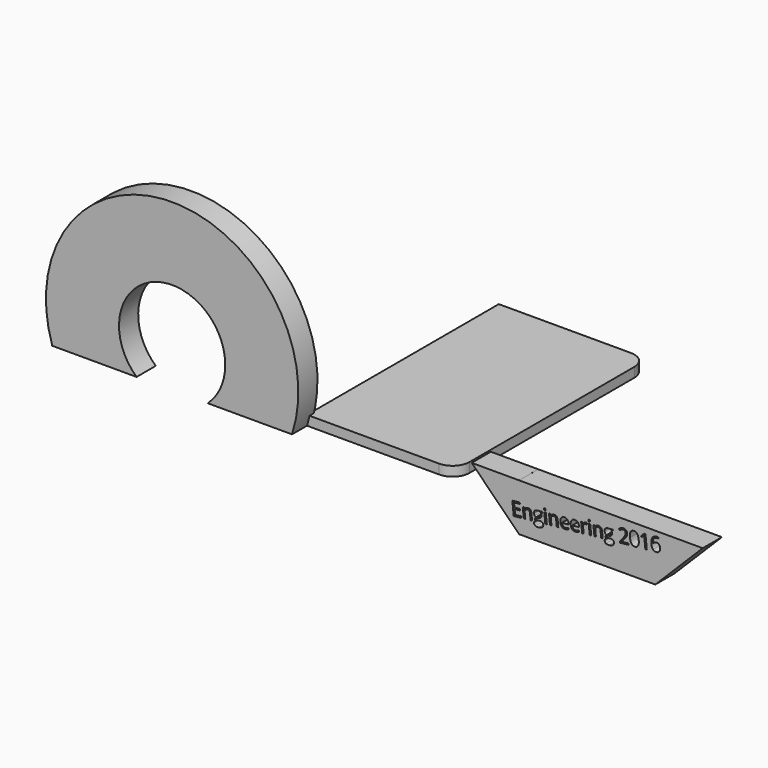
from build123d import *

# Parameters (mm, degrees)
F1_DEPTH = 5.08
F3_DEPTH = 12.7
F5_DEPTH = 12.7


with BuildPart() as f1:
    # F0 (on Top) → F1 (new body)
    with BuildSketch(Plane.XY):
        with BuildLine():
            Line((70.0117455959, 124.229738161), (0, 124.229738161))
            Line((0, 124.229738161), (0, -2.770261839))
            Line((0, -2.770261839), (70.0117455959, -2.770261839))
            ThreePointArc((70.0117455959, -2.770261839), (76.2979248807, -0.1664411238), (78.9017455959, 6.119738161))
            Line((78.9017455959, 6.119738161), (78.9017455959, 115.339738161))
            ThreePointArc((78.9017455959, 115.339738161), (76.2979248807, 121.6259174457), (70.0117455959, 124.229738161))
        make_face()
    extrude(amount=F1_DEPTH)


with BuildPart() as f3:
    # F2 (on Front) → F3 (new body)
    with BuildSketch(Plane.XZ):
        with BuildLine():
            Line((-44.660449028, 0), (0, 0))
            ThreePointArc((0, 0), (-63.5, 87.7487780806), (-127, 0))
            Line((-127, 0), (-82.339550972, 0))
            ThreePointArc((-82.339550972, 0), (-63.5, 49.0348636437), (-44.660449028, 0))
        make_face()
    extrude(amount=F3_DEPTH)


with BuildPart() as f5:
    # F4 (on Front) → F5 (new body)
    with BuildSketch(Plane.XZ):
        Polygon((192.4536546554, 17.6813901773), (120.2919174582, 17.6813901773), (120.2919174582, 17.6855002074), (95.1713174582, 17.6855002074), (120.2919174582, -7.4350997926), (192.4536546554, -7.4350997926), (217.5742546554, 17.6813901773), (205.0909978816, 17.6813901773), align=None)
        with BuildLine():
            Line((127.1690593949, 1.1093207356), (126.3731429304, 1.0267422127))
            Line((126.3731429304, 1.0267422127), (126.0205533219, 4.4251061538))
            add(Edge.make_bspline(
                [(126.0205533219, 4.4251061538), (125.9540449933, 5.0661332872), (125.6290458575, 5.3525023456)],
                knots=[0, 0, 0, 1, 1, 1], degree=2))
            add(Edge.make_bspline(
                [(125.6290458575, 5.3525023456), (125.3040467217, 5.638871404), (124.6798887234, 5.5741132945)],
                knots=[0, 0, 0, 1, 1, 1], degree=2))
            add(Edge.make_bspline(
                [(124.6798887234, 5.5741132945), (123.8563682196, 5.4886707766), (123.5192004831, 5.003394546)],
                knots=[0, 0, 0, 1, 1, 1], degree=2))
            add(Edge.make_bspline(
                [(123.5192004831, 5.003394546), (123.1820327467, 4.5181183154), (123.2884778947, 3.4921681905)],
                knots=[0, 0, 0, 1, 1, 1], degree=2))
            Line((123.2884778947, 3.4921681905), (123.5744000636, 0.7363649404))
            Line((123.5744000636, 0.7363649404), (122.7784835991, 0.6537864174))
            Line((122.7784835991, 0.6537864174), (122.2335289922, 5.9062216605))
            Line((122.2335289922, 5.9062216605), (122.8806903564, 5.9733664325))
            Line((122.8806903564, 5.9733664325), (123.0841321874, 5.2674931648))
            Line((123.0841321874, 5.2674931648), (123.1224711308, 5.2714709356))
            add(Edge.make_bspline(
                [(123.1224711308, 5.2714709356), (123.3275853274, 5.6849187761), (123.7462872149, 5.9445944449)],
                knots=[0, 0, 0, 1, 1, 1], degree=2))
            add(Edge.make_bspline(
                [(123.7462872149, 5.9445944449), (124.1649891024, 6.2042701138), (124.7063349829, 6.2604362383)],
                knots=[0, 0, 0, 1, 1, 1], degree=2))
            add(Edge.make_bspline(
                [(124.7063349829, 6.2604362383), (125.655607221, 6.3589258446), (126.1823385972, 5.9508809963)],
                knots=[0, 0, 0, 1, 1, 1], degree=2))
            add(Edge.make_bspline(
                [(126.1823385972, 5.9508809963), (126.7090699735, 5.542836148), (126.8136057915, 4.535288716)],
                knots=[0, 0, 0, 1, 1, 1], degree=2))
            Line((126.8136057915, 4.535288716), (127.1690593949, 1.1093207356))
        make_face(mode=Mode.SUBTRACT)
        Polygon((121.2705630282, 1.2336168226), (121.3461406744, 0.5051768984), (117.4401691229, 0.0999216038), (116.7131917217, 7.1067468959), (120.6191632732, 7.5120021905), (120.694263587, 6.7881629395), (117.6026111928, 6.4673954978), (117.8368223406, 4.2099985116), (120.7413806911, 4.5113544315), (120.8160036723, 3.7921158537), (117.9114453219, 3.4907599338), (118.178910634, 0.912849381), align=None, mode=Mode.SUBTRACT)
        with BuildLine():
            Line((130.7401737493, 6.7888094574), (132.5559061078, 6.977196685))
            Line((132.5559061078, 6.977196685), (132.6080944614, 6.4741897479))
            Line((132.6080944614, 6.4741897479), (131.6477521698, 6.2582966489))
            add(Edge.make_bspline(
                [(131.6477521698, 6.2582966489), (131.7985147737, 6.1049814983), (131.932492875, 5.8445204268)],
                knots=[0, 0, 0, 1, 1, 1], degree=2))
            add(Edge.make_bspline(
                [(131.932492875, 5.8445204268), (132.0664709764, 5.5840593552), (132.1016344708, 5.2451430957)],
                knots=[0, 0, 0, 1, 1, 1], degree=2))
            add(Edge.make_bspline(
                [(132.1016344708, 5.2451430957), (132.1818263312, 4.4722299972), (131.7020157205, 3.9574285497)],
                knots=[0, 0, 0, 1, 1, 1], degree=2))
            add(Edge.make_bspline(
                [(131.7020157205, 3.9574285497), (131.2222051098, 3.4426271022), (130.3020704687, 3.3471606017)],
                knots=[0, 0, 0, 1, 1, 1], degree=2))
            add(Edge.make_bspline(
                [(130.3020704687, 3.3471606017), (130.0674361352, 3.3228166441), (129.8579616279, 3.3398347357)],
                knots=[0, 0, 0, 1, 1, 1], degree=2))
            add(Edge.make_bspline(
                [(129.8579616279, 3.3398347357), (129.3781984135, 3.0187964459), (129.4203627845, 2.6124036461)],
                knots=[0, 0, 0, 1, 1, 1], degree=2))
            add(Edge.make_bspline(
                [(129.4203627845, 2.6124036461), (129.4427974121, 2.3961720054), (129.6305837564, 2.3118009385)],
                knots=[0, 0, 0, 1, 1, 1], degree=2))
            add(Edge.make_bspline(
                [(129.6305837564, 2.3118009385), (129.8183701007, 2.2274298716), (130.2492998243, 2.272140016)],
                knots=[0, 0, 0, 1, 1, 1], degree=2))
            Line((130.2492998243, 2.272140016), (131.1786358119, 2.3685611815))
            add(Edge.make_bspline(
                [(131.1786358119, 2.3685611815), (132.0328274704, 2.4571859161), (132.5271391661, 2.1449816558)],
                knots=[0, 0, 0, 1, 1, 1], degree=2))
            add(Edge.make_bspline(
                [(132.5271391661, 2.1449816558), (133.0214508617, 1.8327773954), (133.0925734046, 1.1472770878)],
                knots=[0, 0, 0, 1, 1, 1], degree=2))
            add(Edge.make_bspline(
                [(133.0925734046, 1.1472770878), (133.1831074692, 0.2746827365), (132.531299726, -0.2556387878)],
                knots=[0, 0, 0, 1, 1, 1], degree=2))
            add(Edge.make_bspline(
                [(132.531299726, -0.2556387878), (131.8794919827, -0.7859603122), (130.5376289644, -0.925182292)],
                knots=[0, 0, 0, 1, 1, 1], degree=2))
            add(Edge.make_bspline(
                [(130.5376289644, -0.925182292), (129.5070781664, -1.0321047726), (128.9090854422, -0.7066316824)],
                knots=[0, 0, 0, 1, 1, 1], degree=2))
            add(Edge.make_bspline(
                [(128.9090854422, -0.7066316824), (128.3110927181, -0.3811585922), (128.2383790669, 0.3196772928)],
                knots=[0, 0, 0, 1, 1, 1], degree=2))
            add(Edge.make_bspline(
                [(128.2383790669, 0.3196772928), (128.1887364866, 0.7981473061), (128.4590912081, 1.1803874155)],
                knots=[0, 0, 0, 1, 1, 1], degree=2))
            add(Edge.make_bspline(
                [(128.4590912081, 1.1803874155), (128.7294459295, 1.5626275248), (129.2717058521, 1.7444438233)],
                knots=[0, 0, 0, 1, 1, 1], degree=2))
            add(Edge.make_bspline(
                [(129.2717058521, 1.7444438233), (129.0614222496, 1.8140802104), (128.9050467569, 1.9916140631)],
                knots=[0, 0, 0, 1, 1, 1], degree=2))
            add(Edge.make_bspline(
                [(128.9050467569, 1.9916140631), (128.7486712642, 2.1691479157), (128.7222588657, 2.4237184998)],
                knots=[0, 0, 0, 1, 1, 1], degree=2))
            add(Edge.make_bspline(
                [(128.7222588657, 2.4237184998), (128.6925051397, 2.7104937962), (128.8234262856, 2.9426365203)],
                knots=[0, 0, 0, 1, 1, 1], degree=2))
            add(Edge.make_bspline(
                [(128.8234262856, 2.9426365203), (128.9543474315, 3.1747792444), (129.2647523831, 3.4100432479)],
                knots=[0, 0, 0, 1, 1, 1], degree=2))
            add(Edge.make_bspline(
                [(129.2647523831, 3.4100432479), (128.8394829446, 3.5348775591), (128.5416122088, 3.9108649553)],
                knots=[0, 0, 0, 1, 1, 1], degree=2))
            add(Edge.make_bspline(
                [(128.5416122088, 3.9108649553), (128.2437414731, 4.2868523515), (128.1899620112, 4.805194866)],
                knots=[0, 0, 0, 1, 1, 1], degree=2))
            add(Edge.make_bspline(
                [(128.1899620112, 4.805194866), (128.1005417224, 5.6670543132), (128.5695886536, 6.1884893289)],
                knots=[0, 0, 0, 1, 1, 1], degree=2))
            add(Edge.make_bspline(
                [(128.5695886536, 6.1884893289), (129.0386355848, 6.7099243447), (129.9863742652, 6.8082548402)],
                knots=[0, 0, 0, 1, 1, 1], degree=2))
            add(Edge.make_bspline(
                [(129.9863742652, 6.8082548402), (130.3989012959, 6.8510556546), (130.7401737493, 6.7888094574)],
                knots=[0, 0, 0, 1, 1, 1], degree=2))
        make_face(mode=Mode.SUBTRACT)
        Polygon((134.4299136602, 7.1716301243), (134.9748682671, 1.9191948813), (134.1789518025, 1.8366163584), (133.6339971956, 7.0890516014), align=None, mode=Mode.SUBTRACT)
        with BuildLine():
            Line((141.0523575716, 2.549751117), (140.2564411071, 2.4671725941))
            Line((140.2564411071, 2.4671725941), (139.9038514986, 5.8655365352))
            add(Edge.make_bspline(
                [(139.9038514986, 5.8655365352), (139.83734317, 6.5065636686), (139.5123440342, 6.792932727)],
                knots=[0, 0, 0, 1, 1, 1], degree=2))
            add(Edge.make_bspline(
                [(139.5123440342, 6.792932727), (139.1873448984, 7.0793017854), (138.5631869001, 7.0145436759)],
                knots=[0, 0, 0, 1, 1, 1], degree=2))
            add(Edge.make_bspline(
                [(138.5631869001, 7.0145436759), (137.7396663963, 6.929101158), (137.4024986599, 6.4438249274)],
                knots=[0, 0, 0, 1, 1, 1], degree=2))
            add(Edge.make_bspline(
                [(137.4024986599, 6.4438249274), (137.0653309234, 5.9585486967), (137.1717760714, 4.9325985719)],
                knots=[0, 0, 0, 1, 1, 1], degree=2))
            Line((137.1717760714, 4.9325985719), (137.4576982403, 2.1767953218))
            Line((137.4576982403, 2.1767953218), (136.6617817758, 2.0942167988))
            Line((136.6617817758, 2.0942167988), (136.1168271689, 7.3466520419))
            Line((136.1168271689, 7.3466520419), (136.7639885331, 7.4137968139))
            Line((136.7639885331, 7.4137968139), (136.9674303641, 6.7079235462))
            Line((136.9674303641, 6.7079235462), (137.0057693075, 6.711901317))
            add(Edge.make_bspline(
                [(137.0057693075, 6.711901317), (137.2108835041, 7.1253491575), (137.6295853916, 7.3850248263)],
                knots=[0, 0, 0, 1, 1, 1], degree=2))
            add(Edge.make_bspline(
                [(137.6295853916, 7.3850248263), (138.0482872791, 7.6447004952), (138.5896331596, 7.7008666197)],
                knots=[0, 0, 0, 1, 1, 1], degree=2))
            add(Edge.make_bspline(
                [(138.5896331596, 7.7008666197), (139.5389053977, 7.799356226), (140.0656367739, 7.3913113777)],
                knots=[0, 0, 0, 1, 1, 1], degree=2))
            add(Edge.make_bspline(
                [(140.0656367739, 7.3913113777), (140.5923681502, 6.9832665294), (140.6969039682, 5.9757190974)],
                knots=[0, 0, 0, 1, 1, 1], degree=2))
            Line((140.6969039682, 5.9757190974), (141.0523575716, 2.549751117))
        make_face(mode=Mode.SUBTRACT)
        with BuildLine():
            add(Edge.make_bspline(
                [(145.8142710009, 3.026762011), (145.4468231191, 2.9080348544), (144.914678585, 2.852823395)],
                knots=[0, 0, 0, 1, 1, 1], degree=2))
            add(Edge.make_bspline(
                [(144.914678585, 2.852823395), (143.750708264, 2.7320582719), (143.0030413232, 3.3721662917)],
                knots=[0, 0, 0, 1, 1, 1], degree=2))
            add(Edge.make_bspline(
                [(143.0030413232, 3.3721662917), (142.2553743823, 4.0122743115), (142.1247443875, 5.2713252121)],
                knots=[0, 0, 0, 1, 1, 1], degree=2))
            add(Edge.make_bspline(
                [(142.1247443875, 5.2713252121), (141.992841506, 6.5426445745), (142.5409665303, 7.3551711908)],
                knots=[0, 0, 0, 1, 1, 1], degree=2))
            add(Edge.make_bspline(
                [(142.5409665303, 7.3551711908), (143.0890915547, 8.167697807), (144.1441792765, 8.2771660609)],
                knots=[0, 0, 0, 1, 1, 1], degree=2))
            add(Edge.make_bspline(
                [(144.1441792765, 8.2771660609), (145.1302569002, 8.3794743272), (145.7727244892, 7.7896791892)],
                knots=[0, 0, 0, 1, 1, 1], degree=2))
            add(Edge.make_bspline(
                [(145.7727244892, 7.7896791892), (146.4151920781, 7.1998840511), (146.525614997, 6.1355949829)],
                knots=[0, 0, 0, 1, 1, 1], degree=2))
            Line((146.525614997, 6.1355949829), (146.5778033506, 5.6325880458))
            Line((146.5778033506, 5.6325880458), (142.9601406533, 5.257245588))
            add(Edge.make_bspline(
                [(142.9601406533, 5.257245588), (143.08062141, 4.3350560471), (143.5735417312, 3.9018022859)],
                knots=[0, 0, 0, 1, 1, 1], degree=2))
            add(Edge.make_bspline(
                [(143.5735417312, 3.9018022859), (144.0664620523, 3.4685485247), (144.8715798633, 3.5520817126)],
                knots=[0, 0, 0, 1, 1, 1], degree=2))
            add(Edge.make_bspline(
                [(144.8715798633, 3.5520817126), (145.7196372908, 3.6400700039), (146.5110038652, 4.0802416912)],
                knots=[0, 0, 0, 1, 1, 1], degree=2))
            Line((146.5110038652, 4.0802416912), (146.5846721814, 3.3702044598))
            add(Edge.make_bspline(
                [(146.5846721814, 3.3702044598), (146.1817188826, 3.1454891676), (145.8142710009, 3.026762011)],
                knots=[0, 0, 0, 1, 1, 1], degree=2))
        make_face(mode=Mode.SUBTRACT)
        with BuildLine():
            add(Edge.make_bspline(
                [(151.3212768279, 3.5981290164), (150.9538289462, 3.4794018598), (150.4216844121, 3.4241904004)],
                knots=[0, 0, 0, 1, 1, 1], degree=2))
            add(Edge.make_bspline(
                [(150.4216844121, 3.4241904004), (149.2577140911, 3.3034252773), (148.5100471502, 3.943533297)],
                knots=[0, 0, 0, 1, 1, 1], degree=2))
            add(Edge.make_bspline(
                [(148.5100471502, 3.943533297), (147.7623802094, 4.5836413168), (147.6317502146, 5.8426922174)],
                knots=[0, 0, 0, 1, 1, 1], degree=2))
            add(Edge.make_bspline(
                [(147.6317502146, 5.8426922174), (147.4998473331, 7.1140115799), (148.0479723574, 7.9265381961)],
                knots=[0, 0, 0, 1, 1, 1], degree=2))
            add(Edge.make_bspline(
                [(148.0479723574, 7.9265381961), (148.5960973817, 8.7390648124), (149.6511851036, 8.8485330663)],
                knots=[0, 0, 0, 1, 1, 1], degree=2))
            add(Edge.make_bspline(
                [(149.6511851036, 8.8485330663), (150.6372627273, 8.9508413326), (151.2797303162, 8.3610461945)],
                knots=[0, 0, 0, 1, 1, 1], degree=2))
            add(Edge.make_bspline(
                [(151.2797303162, 8.3610461945), (151.9221979052, 7.7712510565), (152.0326208241, 6.7069619883)],
                knots=[0, 0, 0, 1, 1, 1], degree=2))
            Line((152.0326208241, 6.7069619883), (152.0848091777, 6.2039550511))
            Line((152.0848091777, 6.2039550511), (148.4671464804, 5.8286125934))
            add(Edge.make_bspline(
                [(148.4671464804, 5.8286125934), (148.5876272371, 4.9064230524), (149.0805475582, 4.4731692912)],
                knots=[0, 0, 0, 1, 1, 1], degree=2))
            add(Edge.make_bspline(
                [(149.0805475582, 4.4731692912), (149.5734678794, 4.0399155301), (150.3785856904, 4.123448718)],
                knots=[0, 0, 0, 1, 1, 1], degree=2))
            add(Edge.make_bspline(
                [(150.3785856904, 4.123448718), (151.2266431179, 4.2114370093), (152.0180096922, 4.6516086965)],
                knots=[0, 0, 0, 1, 1, 1], degree=2))
            Line((152.0180096922, 4.6516086965), (152.0916780084, 3.9415714651))
            add(Edge.make_bspline(
                [(152.0916780084, 3.9415714651), (151.6887247097, 3.716856173), (151.3212768279, 3.5981290164)],
                knots=[0, 0, 0, 1, 1, 1], degree=2))
        make_face(mode=Mode.SUBTRACT)
        with BuildLine():
            add(Edge.make_bspline(
                [(154.6641263593, 9.0873025482), (155.0477747737, 9.4084440916), (155.5415803644, 9.4596777802)],
                knots=[0, 0, 0, 1, 1, 1], degree=2))
            add(Edge.make_bspline(
                [(155.5415803644, 9.4596777802), (155.8912315281, 9.4959550503), (156.1748516898, 9.4664789174)],
                knots=[0, 0, 0, 1, 1, 1], degree=2))
            Line((156.1748516898, 9.4664789174), (156.1409678441, 8.7173816667))
            add(Edge.make_bspline(
                [(156.1409678441, 8.7173816667), (155.808375395, 8.7557273834), (155.5584054842, 8.7297923174)],
                knots=[0, 0, 0, 1, 1, 1], degree=2))
            add(Edge.make_bspline(
                [(155.5584054842, 8.7297923174), (154.9204454664, 8.6636022105), (154.521745841, 8.0990887788)],
                knots=[0, 0, 0, 1, 1, 1], degree=2))
            add(Edge.make_bspline(
                [(154.521745841, 8.0990887788), (154.1230462156, 7.5345753471), (154.2030789652, 6.7631958063)],
                knots=[0, 0, 0, 1, 1, 1], degree=2))
            Line((154.2030789652, 6.7631958063), (154.4955246783, 3.944516689))
            Line((154.4955246783, 3.944516689), (153.6996082138, 3.8619381661))
            Line((153.6996082138, 3.8619381661), (153.1546536069, 9.1143734091))
            Line((153.1546536069, 9.1143734091), (153.8110163175, 9.1824728461))
            Line((153.8110163175, 9.1824728461), (154.0039060505, 8.219743892))
            Line((154.0039060505, 8.219743892), (154.0422449939, 8.2237216629))
            add(Edge.make_bspline(
                [(154.0422449939, 8.2237216629), (154.280477945, 8.7661610049), (154.6641263593, 9.0873025482)],
                knots=[0, 0, 0, 1, 1, 1], degree=2))
        make_face(mode=Mode.SUBTRACT)
        with BuildLine():
            add(Edge.make_bspline(
                [(133.5945800307, 8.1188559321), (133.4467101971, 8.2368196993), (133.4188658012, 8.505192303)],
                knots=[0, 0, 0, 1, 1, 1], degree=2))
            add(Edge.make_bspline(
                [(133.4188658012, 8.505192303), (133.3905440727, 8.7781655798), (133.5115241753, 8.9193730699)],
                knots=[0, 0, 0, 1, 1, 1], degree=2))
            add(Edge.make_bspline(
                [(133.5115241753, 8.9193730699), (133.6325042779, 9.0605805599), (133.8349338989, 9.08158319)],
                knots=[0, 0, 0, 1, 1, 1], degree=2))
            add(Edge.make_bspline(
                [(133.8349338989, 9.08158319), (134.0266286158, 9.1014720442), (134.1788604564, 8.9862859461)],
                knots=[0, 0, 0, 1, 1, 1], degree=2))
            add(Edge.make_bspline(
                [(134.1788604564, 8.9862859461), (134.3310922969, 8.871099848), (134.3589366928, 8.6027272443)],
                knots=[0, 0, 0, 1, 1, 1], degree=2))
            add(Edge.make_bspline(
                [(134.3589366928, 8.6027272443), (134.3867810888, 8.3343546406), (134.2616776455, 8.1880691449)],
                knots=[0, 0, 0, 1, 1, 1], degree=2))
            add(Edge.make_bspline(
                [(134.2616776455, 8.1880691449), (134.1365742022, 8.0417836492), (133.9448794853, 8.0218947949)],
                knots=[0, 0, 0, 1, 1, 1], degree=2))
            add(Edge.make_bspline(
                [(133.9448794853, 8.0218947949), (133.7424498643, 8.0008921648), (133.5945800307, 8.1188559321)],
                knots=[0, 0, 0, 1, 1, 1], degree=2))
        make_face(mode=Mode.SUBTRACT)
        Polygon((157.9577564335, 9.6127085416), (158.5027110404, 4.3602732986), (157.7067945758, 4.2776947756), (157.1618399689, 9.5301300187), align=None, mode=Mode.SUBTRACT)
        with BuildLine():
            Line((164.580200345, 4.9908295342), (163.7842838804, 4.9082510113))
            Line((163.7842838804, 4.9082510113), (163.431694272, 8.3066149525))
            add(Edge.make_bspline(
                [(163.431694272, 8.3066149525), (163.3651859433, 8.9476420858), (163.0401868075, 9.2340111442)],
                knots=[0, 0, 0, 1, 1, 1], degree=2))
            add(Edge.make_bspline(
                [(163.0401868075, 9.2340111442), (162.7151876717, 9.5203802026), (162.0910296735, 9.4556220931)],
                knots=[0, 0, 0, 1, 1, 1], degree=2))
            add(Edge.make_bspline(
                [(162.0910296735, 9.4556220931), (161.2675091697, 9.3701795752), (160.9303414332, 8.8849033446)],
                knots=[0, 0, 0, 1, 1, 1], degree=2))
            add(Edge.make_bspline(
                [(160.9303414332, 8.8849033446), (160.5931736967, 8.399627114), (160.6996188448, 7.3736769892)],
                knots=[0, 0, 0, 1, 1, 1], degree=2))
            Line((160.6996188448, 7.3736769892), (160.9855410137, 4.617873739))
            Line((160.9855410137, 4.617873739), (160.1896245491, 4.5352952161))
            Line((160.1896245491, 4.5352952161), (159.6446699422, 9.7877304591))
            Line((159.6446699422, 9.7877304591), (160.2918313065, 9.8548752311))
            Line((160.2918313065, 9.8548752311), (160.4952731374, 9.1490019634))
            Line((160.4952731374, 9.1490019634), (160.5336120808, 9.1529797343))
            add(Edge.make_bspline(
                [(160.5336120808, 9.1529797343), (160.7387262774, 9.5664275747), (161.1574281649, 9.8261032436)],
                knots=[0, 0, 0, 1, 1, 1], degree=2))
            add(Edge.make_bspline(
                [(161.1574281649, 9.8261032436), (161.5761300524, 10.0857789125), (162.117475933, 10.1419450369)],
                knots=[0, 0, 0, 1, 1, 1], degree=2))
            add(Edge.make_bspline(
                [(162.117475933, 10.1419450369), (163.066748171, 10.2404346432), (163.5934795473, 9.832389795)],
                knots=[0, 0, 0, 1, 1, 1], degree=2))
            add(Edge.make_bspline(
                [(163.5934795473, 9.832389795), (164.1202109235, 9.4243449467), (164.2247467415, 8.4167975146)],
                knots=[0, 0, 0, 1, 1, 1], degree=2))
            Line((164.2247467415, 8.4167975146), (164.580200345, 4.9908295342))
        make_face(mode=Mode.SUBTRACT)
        with BuildLine():
            Line((168.1513146993, 10.6703182561), (169.9670470578, 10.8587054837))
            Line((169.9670470578, 10.8587054837), (170.0192354114, 10.3556985465))
            Line((170.0192354114, 10.3556985465), (169.0588931199, 10.1398054476))
            add(Edge.make_bspline(
                [(169.0588931199, 10.1398054476), (169.2096557237, 9.986490297), (169.3436338251, 9.7260292254)],
                knots=[0, 0, 0, 1, 1, 1], degree=2))
            add(Edge.make_bspline(
                [(169.3436338251, 9.7260292254), (169.4776119265, 9.4655681538), (169.5127754208, 9.1266518944)],
                knots=[0, 0, 0, 1, 1, 1], degree=2))
            add(Edge.make_bspline(
                [(169.5127754208, 9.1266518944), (169.5929672812, 8.3537387958), (169.1131566706, 7.8389373483)],
                knots=[0, 0, 0, 1, 1, 1], degree=2))
            add(Edge.make_bspline(
                [(169.1131566706, 7.8389373483), (168.6333460599, 7.3241359008), (167.7132114188, 7.2286694003)],
                knots=[0, 0, 0, 1, 1, 1], degree=2))
            add(Edge.make_bspline(
                [(167.7132114188, 7.2286694003), (167.4785770853, 7.2043254427), (167.2691025779, 7.2213435343)],
                knots=[0, 0, 0, 1, 1, 1], degree=2))
            add(Edge.make_bspline(
                [(167.2691025779, 7.2213435343), (166.7893393635, 6.9003052446), (166.8315037346, 6.4939124448)],
                knots=[0, 0, 0, 1, 1, 1], degree=2))
            add(Edge.make_bspline(
                [(166.8315037346, 6.4939124448), (166.8539383622, 6.2776808041), (167.0417247065, 6.1933097372)],
                knots=[0, 0, 0, 1, 1, 1], degree=2))
            add(Edge.make_bspline(
                [(167.0417247065, 6.1933097372), (167.2295110508, 6.1089386703), (167.6604407744, 6.1536488146)],
                knots=[0, 0, 0, 1, 1, 1], degree=2))
            Line((167.6604407744, 6.1536488146), (168.5897767619, 6.2500699801))
            add(Edge.make_bspline(
                [(168.5897767619, 6.2500699801), (169.4439684204, 6.3386947147), (169.9382801161, 6.0264904544)],
                knots=[0, 0, 0, 1, 1, 1], degree=2))
            add(Edge.make_bspline(
                [(169.9382801161, 6.0264904544), (170.4325918118, 5.7142861941), (170.5037143547, 5.0287858864)],
                knots=[0, 0, 0, 1, 1, 1], degree=2))
            add(Edge.make_bspline(
                [(170.5037143547, 5.0287858864), (170.5942484193, 4.1561915351), (169.942440676, 3.6258700108)],
                knots=[0, 0, 0, 1, 1, 1], degree=2))
            add(Edge.make_bspline(
                [(169.942440676, 3.6258700108), (169.2906329328, 3.0955484865), (167.9487699145, 2.9563265066)],
                knots=[0, 0, 0, 1, 1, 1], degree=2))
            add(Edge.make_bspline(
                [(167.9487699145, 2.9563265066), (166.9182191164, 2.8494040261), (166.3202263923, 3.1748771163)],
                knots=[0, 0, 0, 1, 1, 1], degree=2))
            add(Edge.make_bspline(
                [(166.3202263923, 3.1748771163), (165.7222336681, 3.5003502064), (165.6495200169, 4.2011860914)],
                knots=[0, 0, 0, 1, 1, 1], degree=2))
            add(Edge.make_bspline(
                [(165.6495200169, 4.2011860914), (165.5998774367, 4.6796561048), (165.8702321581, 5.0618962141)],
                knots=[0, 0, 0, 1, 1, 1], degree=2))
            add(Edge.make_bspline(
                [(165.8702321581, 5.0618962141), (166.1405868796, 5.4441363234), (166.6828468021, 5.6259526219)],
                knots=[0, 0, 0, 1, 1, 1], degree=2))
            add(Edge.make_bspline(
                [(166.6828468021, 5.6259526219), (166.4725631996, 5.695589009), (166.3161877069, 5.8731228617)],
                knots=[0, 0, 0, 1, 1, 1], degree=2))
            add(Edge.make_bspline(
                [(166.3161877069, 5.8731228617), (166.1598122142, 6.0506567144), (166.1333998158, 6.3052272984)],
                knots=[0, 0, 0, 1, 1, 1], degree=2))
            add(Edge.make_bspline(
                [(166.1333998158, 6.3052272984), (166.1036460898, 6.5920025949), (166.2345672357, 6.824145319)],
                knots=[0, 0, 0, 1, 1, 1], degree=2))
            add(Edge.make_bspline(
                [(166.2345672357, 6.824145319), (166.3654883816, 7.056288043), (166.6758933331, 7.2915520465)],
                knots=[0, 0, 0, 1, 1, 1], degree=2))
            add(Edge.make_bspline(
                [(166.6758933331, 7.2915520465), (166.2506238946, 7.4163863578), (165.9527531589, 7.792373754)],
                knots=[0, 0, 0, 1, 1, 1], degree=2))
            add(Edge.make_bspline(
                [(165.9527531589, 7.792373754), (165.6548824232, 8.1683611502), (165.6011029612, 8.6867036647)],
                knots=[0, 0, 0, 1, 1, 1], degree=2))
            add(Edge.make_bspline(
                [(165.6011029612, 8.6867036647), (165.5116826724, 9.5485631118), (165.9807296037, 10.0699981276)],
                knots=[0, 0, 0, 1, 1, 1], degree=2))
            add(Edge.make_bspline(
                [(165.9807296037, 10.0699981276), (166.4497765349, 10.5914331433), (167.3975152152, 10.6897636388)],
                knots=[0, 0, 0, 1, 1, 1], degree=2))
            add(Edge.make_bspline(
                [(167.3975152152, 10.6897636388), (167.810042246, 10.7325644532), (168.1513146993, 10.6703182561)],
                knots=[0, 0, 0, 1, 1, 1], degree=2))
        make_face(mode=Mode.SUBTRACT)
        with BuildLine():
            add(Edge.make_bspline(
                [(157.1224228041, 10.5599343493), (156.9745529705, 10.6778981166), (156.9467085745, 10.9462707202)],
                knots=[0, 0, 0, 1, 1, 1], degree=2))
            add(Edge.make_bspline(
                [(156.9467085745, 10.9462707202), (156.918386846, 11.2192439971), (157.0393669486, 11.3604514871)],
                knots=[0, 0, 0, 1, 1, 1], degree=2))
            add(Edge.make_bspline(
                [(157.0393669486, 11.3604514871), (157.1603470512, 11.5016589771), (157.3627766723, 11.5226616072)],
                knots=[0, 0, 0, 1, 1, 1], degree=2))
            add(Edge.make_bspline(
                [(157.3627766723, 11.5226616072), (157.5544713892, 11.5425504615), (157.7067032297, 11.4273643634)],
                knots=[0, 0, 0, 1, 1, 1], degree=2))
            add(Edge.make_bspline(
                [(157.7067032297, 11.4273643634), (157.8589350702, 11.3121782652), (157.8867794662, 11.0438056616)],
                knots=[0, 0, 0, 1, 1, 1], degree=2))
            add(Edge.make_bspline(
                [(157.8867794662, 11.0438056616), (157.9146238622, 10.7754330579), (157.7895204189, 10.6291475622)],
                knots=[0, 0, 0, 1, 1, 1], degree=2))
            add(Edge.make_bspline(
                [(157.7895204189, 10.6291475622), (157.6644169756, 10.4828620665), (157.4727222587, 10.4629732122)],
                knots=[0, 0, 0, 1, 1, 1], degree=2))
            add(Edge.make_bspline(
                [(157.4727222587, 10.4629732122), (157.2702926376, 10.4419705821), (157.1224228041, 10.5599343493)],
                knots=[0, 0, 0, 1, 1, 1], degree=2))
        make_face(mode=Mode.SUBTRACT)
        with BuildLine():
            Line((178.3056876505, 7.160468312), (178.3822199617, 6.4228270414))
            Line((178.3822199617, 6.4228270414), (173.7769460829, 5.9450172065))
            Line((173.7769460829, 5.9450172065), (173.7058235401, 6.6305175141))
            Line((173.7058235401, 6.6305175141), (175.3583284971, 8.6759991495))
            add(Edge.make_bspline(
                [(175.3583284971, 8.6759991495), (176.1131605168, 9.6177017667), (176.3437442974, 10.0097661248)],
                knots=[0, 0, 0, 1, 1, 1], degree=2))
            add(Edge.make_bspline(
                [(176.3437442974, 10.0097661248), (176.5743280779, 10.4018304829), (176.6727144421, 10.7608031713)],
                knots=[0, 0, 0, 1, 1, 1], degree=2))
            add(Edge.make_bspline(
                [(176.6727144421, 10.7608031713), (176.7711008062, 11.1197758597), (176.7298911002, 11.5169673131)],
                knots=[0, 0, 0, 1, 1, 1], degree=2))
            add(Edge.make_bspline(
                [(176.7298911002, 11.5169673131), (176.6716565349, 12.0782494442), (176.2971569992, 12.3711081944)],
                knots=[0, 0, 0, 1, 1, 1], degree=2))
            add(Edge.make_bspline(
                [(176.2971569992, 12.3711081944), (175.9226574634, 12.6639669445), (175.3184357158, 12.6012772759)],
                knots=[0, 0, 0, 1, 1, 1], degree=2))
            add(Edge.make_bspline(
                [(175.3184357158, 12.6012772759), (174.882905319, 12.556089799), (174.5068045149, 12.3713621092)],
                knots=[0, 0, 0, 1, 1, 1], degree=2))
            add(Edge.make_bspline(
                [(174.5068045149, 12.3713621092), (174.1307037108, 12.1866344193), (173.6915340735, 11.7582030785)],
                knots=[0, 0, 0, 1, 1, 1], degree=2))
            Line((173.6915340735, 11.7582030785), (173.2136395719, 12.2557934796))
            add(Edge.make_bspline(
                [(173.2136395719, 12.2557934796), (174.0977813149, 13.1613102269), (175.2387482698, 13.2796886875)],
                knots=[0, 0, 0, 1, 1, 1], degree=2))
            add(Edge.make_bspline(
                [(175.2387482698, 13.2796886875), (176.2263594513, 13.3821560647), (176.8393018234, 12.9350038009)],
                knots=[0, 0, 0, 1, 1, 1], degree=2))
            add(Edge.make_bspline(
                [(176.8393018234, 12.9350038009), (177.4522441954, 12.487851537), (177.5407098192, 11.6351934362)],
                knots=[0, 0, 0, 1, 1, 1], degree=2))
            add(Edge.make_bspline(
                [(177.5407098192, 11.6351934362), (177.6099230321, 10.9680958214), (177.3033570492, 10.2775107404)],
                knots=[0, 0, 0, 1, 1, 1], degree=2))
            add(Edge.make_bspline(
                [(177.3033570492, 10.2775107404), (176.9967910663, 9.5869256594), (176.0757965414, 8.4838270944)],
                knots=[0, 0, 0, 1, 1, 1], degree=2))
            Line((176.0757965414, 8.4838270944), (174.697849202, 6.8248967952))
            Line((174.697849202, 6.8248967952), (174.7018269728, 6.7865578518))
            Line((174.7018269728, 6.7865578518), (178.3056876505, 7.160468312))
        make_face(mode=Mode.SUBTRACT)
        with BuildLine():
            add(Edge.make_bspline(
                [(182.7974833796, 13.1393139282), (183.4854600538, 12.275228617), (183.6673237372, 10.5223721257)],
                knots=[0, 0, 0, 1, 1, 1], degree=2))
            add(Edge.make_bspline(
                [(183.6673237372, 10.5223721257), (183.8558700756, 8.7051062095), (183.3760865441, 7.7493138167)],
                knots=[0, 0, 0, 1, 1, 1], degree=2))
            add(Edge.make_bspline(
                [(183.3760865441, 7.7493138167), (182.8963030125, 6.7935214239), (181.7169971142, 6.6711651925)],
                knots=[0, 0, 0, 1, 1, 1], degree=2))
            add(Edge.make_bspline(
                [(181.7169971142, 6.6711651925), (180.5867650633, 6.5539005077), (179.9018842799, 7.4105566965)],
                knots=[0, 0, 0, 1, 1, 1], degree=2))
            add(Edge.make_bspline(
                [(179.9018842799, 7.4105566965), (179.2170034965, 8.2672128853), (179.0329122614, 10.0415391849)],
                knots=[0, 0, 0, 1, 1, 1], degree=2))
            add(Edge.make_bspline(
                [(179.0329122614, 10.0415391849), (178.8430930363, 11.871073563), (179.3215308963, 12.8174259431)],
                knots=[0, 0, 0, 1, 1, 1], degree=2))
            add(Edge.make_bspline(
                [(179.3215308963, 12.8174259431), (179.7999687562, 13.7637783232), (180.9685397504, 13.8850207788)],
                knots=[0, 0, 0, 1, 1, 1], degree=2))
            add(Edge.make_bspline(
                [(180.9685397504, 13.8850207788), (182.1095067054, 14.0033992394), (182.7974833796, 13.1393139282)],
                knots=[0, 0, 0, 1, 1, 1], degree=2))
        make_face(mode=Mode.SUBTRACT)
        with BuildLine():
            Line((187.2185085973, 14.4218674952), (187.9454859984, 7.4150422031))
            Line((187.9454859984, 7.4150422031), (187.1695057844, 7.334532121))
            Line((187.1695057844, 7.334532121), (186.6514409085, 12.3277961068))
            add(Edge.make_bspline(
                [(186.6514409085, 12.3277961068), (186.586682799, 12.951954105), (186.5674236204, 13.511079776)],
                knots=[0, 0, 0, 1, 1, 1], degree=2))
            add(Edge.make_bspline(
                [(186.5674236204, 13.511079776), (186.4782436827, 13.3995227613), (186.3646351519, 13.2769058502)],
                knots=[0, 0, 0, 1, 1, 1], degree=2))
            add(Edge.make_bspline(
                [(186.3646351519, 13.2769058502), (186.2510266211, 13.1542889392), (185.3214130292, 12.2239035054)],
                knots=[0, 0, 0, 1, 1, 1], degree=2))
            Line((185.3214130292, 12.2239035054), (184.843041195, 12.7260945798))
            Line((184.843041195, 12.7260945798), (186.548343867, 14.3523360606))
            Line((186.548343867, 14.3523360606), (187.2185085973, 14.4218674952))
        make_face(mode=Mode.SUBTRACT)
        with BuildLine():
            add(Edge.make_bspline(
                [(191.2544990491, 8.4868923941), (190.5324997355, 9.2381681154), (190.3813444431, 10.6950479638)],
                knots=[0, 0, 0, 1, 1, 1], degree=2))
            add(Edge.make_bspline(
                [(190.3813444431, 10.6950479638), (190.1670221495, 12.7607502331), (190.8637126975, 13.8669277642)],
                knots=[0, 0, 0, 1, 1, 1], degree=2))
            add(Edge.make_bspline(
                [(190.8637126975, 13.8669277642), (191.5604032455, 14.9731052952), (193.1322999241, 15.1361939002)],
                knots=[0, 0, 0, 1, 1, 1], degree=2))
            add(Edge.make_bspline(
                [(193.1322999241, 15.1361939002), (193.6736458046, 15.1923600246), (193.9943455641, 15.1341796176)],
                knots=[0, 0, 0, 1, 1, 1], degree=2))
            Line((193.9943455641, 15.1341796176), (194.0654681069, 14.44867931))
            add(Edge.make_bspline(
                [(194.0654681069, 14.44867931), (193.6834700477, 14.5299511023), (193.2096007075, 14.4807858545)],
                knots=[0, 0, 0, 1, 1, 1], degree=2))
            add(Edge.make_bspline(
                [(193.2096007075, 14.4807858545), (192.0824357721, 14.3638393915), (191.5609753564, 13.6005812794)],
                knots=[0, 0, 0, 1, 1, 1], degree=2))
            add(Edge.make_bspline(
                [(191.5609753564, 13.6005812794), (191.0395149406, 12.8373231673), (191.1390201435, 11.3254823705)],
                knots=[0, 0, 0, 1, 1, 1], degree=2))
            Line((191.1390201435, 11.3254823705), (191.1957617797, 11.3313694713))
            add(Edge.make_bspline(
                [(191.1957617797, 11.3313694713), (191.6377040119, 12.2111576598), (192.7786709668, 12.3295361204)],
                knots=[0, 0, 0, 1, 1, 1], degree=2))
            add(Edge.make_bspline(
                [(192.7786709668, 12.3295361204), (193.7233425317, 12.4275483942), (194.3261779791, 11.9134697074)],
                knots=[0, 0, 0, 1, 1, 1], degree=2))
            add(Edge.make_bspline(
                [(194.3261779791, 11.9134697074), (194.9290134266, 11.3993910206), (195.0303670279, 10.4225147433)],
                knots=[0, 0, 0, 1, 1, 1], degree=2))
            add(Edge.make_bspline(
                [(195.0303670279, 10.4225147433), (195.1438130526, 9.3290880781), (194.612176314, 8.6415024077)],
                knots=[0, 0, 0, 1, 1, 1], degree=2))
            add(Edge.make_bspline(
                [(194.612176314, 8.6415024077), (194.0805395753, 7.9539167373), (193.0637907969, 7.8484262542)],
                knots=[0, 0, 0, 1, 1, 1], degree=2))
            add(Edge.make_bspline(
                [(193.0637907969, 7.8484262542), (191.9764983626, 7.7356166728), (191.2544990491, 8.4868923941)],
                knots=[0, 0, 0, 1, 1, 1], degree=2))
        make_face(mode=Mode.SUBTRACT)
    extrude(amount=F5_DEPTH)


solid = Compound([f1.part, f3.part, f5.part])
